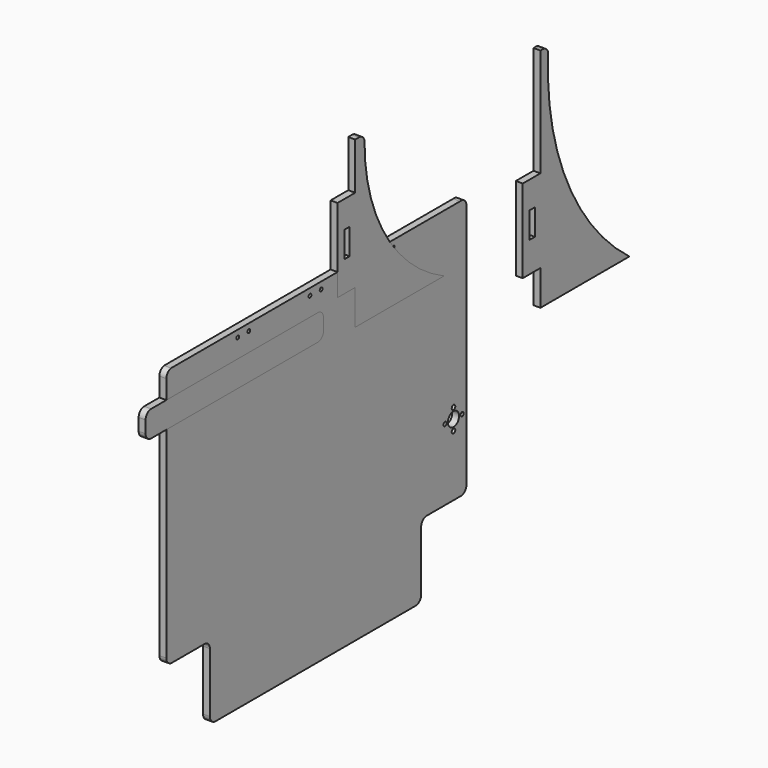
from build123d import *

# Parameters (mm, degrees)
F0_R     = 1.778
F0_R_2   = 2.032
F0_R_3   = 6.3627
F0_R_4   = 1.5875
F1_DEPTH = 6.35
F2_W     = 6.096
F2_H     = 23.7998
F3_DEPTH = 6.35
F5_DEPTH = 6.35
F6_W     = 6.096
F6_H     = 23.7998
F7_DEPTH = 6.35


with BuildPart() as f1:
    # F0 (on Right) → F1 (new body)
    with BuildSketch(Plane.YZ):
        with BuildLine():
            Line((-15.327098, 181.428571), (-180.427112, 181.428571))
            ThreePointArc((-180.427112, 181.428571), (-184.260948, 179.311576), (-185.812477, 175.216124))
            Line((-185.812477, 175.216124), (-185.812477, -49.711429))
            ThreePointArc((-185.812477, -49.711429), (-183.952605, -54.201557), (-179.462477, -56.061429))
            Line((-179.462477, -56.061429), (-142.327137, -56.061429))
            ThreePointArc((-142.327137, -56.061429), (-137.837009, -57.921301), (-135.977137, -62.411429))
            Line((-135.977137, -62.411429), (-135.977137, -117.021429))
            ThreePointArc((-135.977137, -117.021429), (-134.117265, -121.511557), (-129.627137, -123.371429))
            Line((-129.627137, -123.371429), (98.972916, -123.371429))
            ThreePointArc((98.972916, -123.371429), (103.463045, -121.511557), (105.322916, -117.021429))
            Line((105.322916, -117.021429), (105.322916, -62.411429))
            ThreePointArc((105.322916, -62.411429), (107.182788, -57.921301), (111.672916, -56.061429))
            Line((111.672916, -56.061429), (150.7378, -56.061429))
            ThreePointArc((150.7378, -56.061429), (155.227928, -54.201557), (157.0878, -49.711429))
            Line((157.0878, -49.711429), (157.0878, 175.152307))
            ThreePointArc((157.0878, 175.152307), (154.872742, 179.971514), (149.772916, 181.428571))
            Line((149.772916, 181.428571), (-15.327098, 181.428571))
        make_face()
        with Locations((132.500917, 9.210513)):
            Circle(F0_R, mode=Mode.SUBTRACT)
        with Locations((142.279917, -0.314487)):
            Circle(F0_R_2, mode=Mode.SUBTRACT)
        with Locations((142.279917, 9.210513)):
            Circle(F0_R_3, mode=Mode.SUBTRACT)
        with Locations((152.058917, 9.210513)):
            Circle(F0_R, mode=Mode.SUBTRACT)
        with Locations((142.279917, 18.735513)):
            Circle(F0_R_2, mode=Mode.SUBTRACT)
        with Locations((-104.227105, 175.078571)):
            Circle(F0_R_4, mode=Mode.SUBTRACT)
        with Locations((-91.527105, 175.078571)):
            Circle(F0_R_4, mode=Mode.SUBTRACT)
        with Locations((-21.677098, 175.078571)):
            Circle(F0_R_4, mode=Mode.SUBTRACT)
        with Locations((-8.977098, 175.078571)):
            Circle(F0_R_4, mode=Mode.SUBTRACT)
        with Locations((60.872909, 175.078571)):
            Circle(F0_R_4, mode=Mode.SUBTRACT)
        with Locations((73.572909, 175.078571)):
            Circle(F0_R_4, mode=Mode.SUBTRACT)
    extrude(amount=F1_DEPTH)


with BuildPart() as f3:
    # F2 (on Right) → F3 (new body)
    with BuildSketch(Plane.YZ):
        with BuildLine():
            Line((9.765309, 160.830349), (29.972, 160.830349))
            Line((29.972, 160.830349), (29.972, 154.204835))
            Line((29.972, 154.204835), (29.972, 128.804835))
            Line((29.972, 128.804835), (131.572, 128.804835))
            ThreePointArc((131.572, 128.804835), (64.95914, 188.243112), (40.640326, 274.142922))
            ThreePointArc((40.640326, 274.142922), (38.575786, 278.202319), (34.324452, 279.83547))
            Line((34.324452, 279.83547), (29.972, 279.83547))
            Line((29.972, 279.83547), (29.972, 237.030349))
            Line((29.972, 237.030349), (9.765309, 237.030349))
            Line((9.765309, 237.030349), (9.765309, 160.830349))
        make_face()
        with Locations((20.574, 200.3909)):
            Rectangle(F2_W, F2_H, mode=Mode.SUBTRACT)
    extrude(amount=F3_DEPTH)


with BuildPart() as f5:
    # F4 (on Right) → F5 (new body)
    with BuildSketch(Plane.YZ):
        with BuildLine():
            Line((-12.651345, 157.905535), (-203.151345, 157.905535))
            ThreePointArc((-203.151345, 157.905535), (-207.641473, 156.045663), (-209.501345, 151.555535))
            Line((-209.501345, 151.555535), (-209.501345, 140.455735))
            ThreePointArc((-209.501345, 140.455735), (-207.641473, 135.965606), (-203.151345, 134.105735))
            Line((-203.151345, 134.105735), (-12.651345, 134.105735))
            ThreePointArc((-12.651345, 134.105735), (-8.161217, 135.965606), (-6.301345, 140.455735))
            Line((-6.301345, 140.455735), (-6.301345, 151.555535))
            ThreePointArc((-6.301345, 151.555535), (-8.161217, 156.045663), (-12.651345, 157.905535))
        make_face()
    extrude(amount=F5_DEPTH)


with BuildPart() as f7:
    # F6 (on Right) → F7 (new body)
    with BuildSketch(Plane.YZ):
        with BuildLine():
            Line((244.12591, 265.414801), (241.58591, 265.414801))
            Line((241.58591, 265.414801), (241.58591, 166.630315))
            Line((241.58591, 166.630315), (221.379224, 166.630315))
            Line((221.379224, 166.630315), (221.379224, 90.430315))
            Line((221.379224, 90.430315), (241.58591, 90.430315))
            Line((241.58591, 90.430315), (241.58591, 83.804801))
            Line((241.58591, 83.804801), (241.58591, 58.404801))
            Line((241.58591, 58.404801), (343.18591, 58.404801))
            ThreePointArc((343.18591, 58.404801), (271.974436, 147.485933), (250.462008, 259.484761))
            ThreePointArc((250.462008, 259.484761), (248.46502, 263.70103), (244.12591, 265.414801))
        make_face()
        with Locations((232.18791, 129.990857)):
            Rectangle(F6_W, F6_H, mode=Mode.SUBTRACT)
    extrude(amount=F7_DEPTH)


solid = Compound([f1.part, f3.part, f5.part, f7.part])
